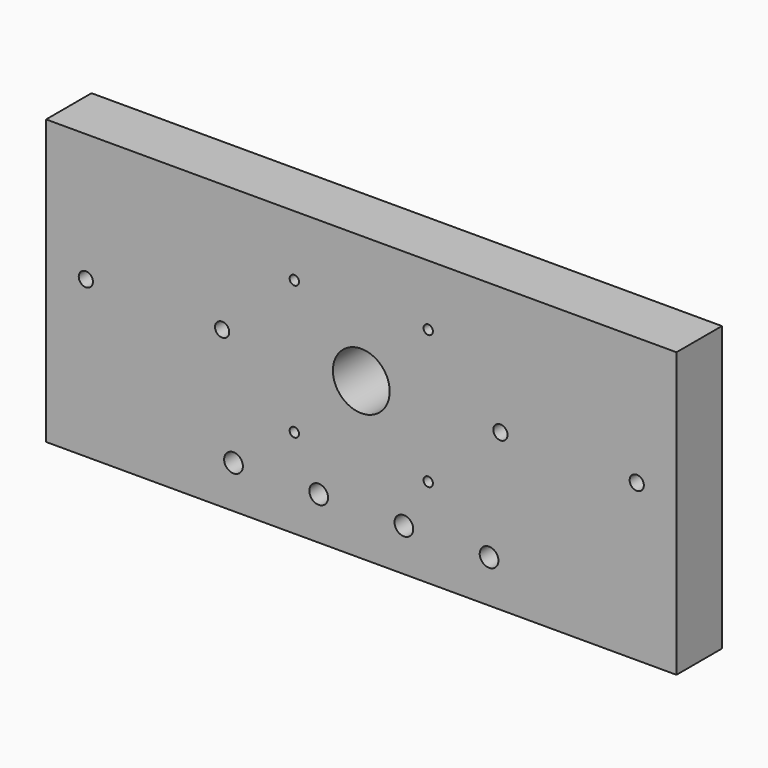
from build123d import *

# Parameters (mm, degrees)
F0_W           = 222
F0_H           = 100
F0_R           = 10
F1_DEPTH       = 20
F2_D           = 5
F3_D           = 6.6
F3_CSINK_D     = 13.44
F3_CSINK_ANGLE = 90
F4_D           = 3.3


with BuildPart() as f1:
    # F0 (on Front) → F1 (new body)
    with BuildSketch(Plane.XZ):
        Rectangle(F0_W, F0_H)
        with Locations((0, 5)):
            Circle(F0_R, mode=Mode.SUBTRACT)
    extrude(amount=F1_DEPTH)

    # F2 (through all)
    with Locations(Plane(origin=(0, 0, 0), x_dir=(1, 0, 0), z_dir=(0, 1, 0))):
        with Locations((49, -5), (97, -5), (-49, -5), (-97, -5)):
            Hole(F2_D / 2)

    # F3 (through all)
    with Locations(Plane(origin=(0, 0, 0), x_dir=(1, 0, 0), z_dir=(0, 1, 0))):
        with Locations((-45, 35), (-15, 35), (15, 35), (45, 35)):
            CounterSinkHole(F3_D / 2, F3_CSINK_D / 2, counter_sink_angle=F3_CSINK_ANGLE)

    # F4 (through all)
    with Locations(Plane(origin=(0, 0, 0), x_dir=(1, 0, 0), z_dir=(0, 1, 0))):
        with Locations((23.57, -28.57), (-23.57, -28.57), (23.57, 18.57), (-23.57, 18.57)):
            Hole(F4_D / 2)


solid = f1.part
